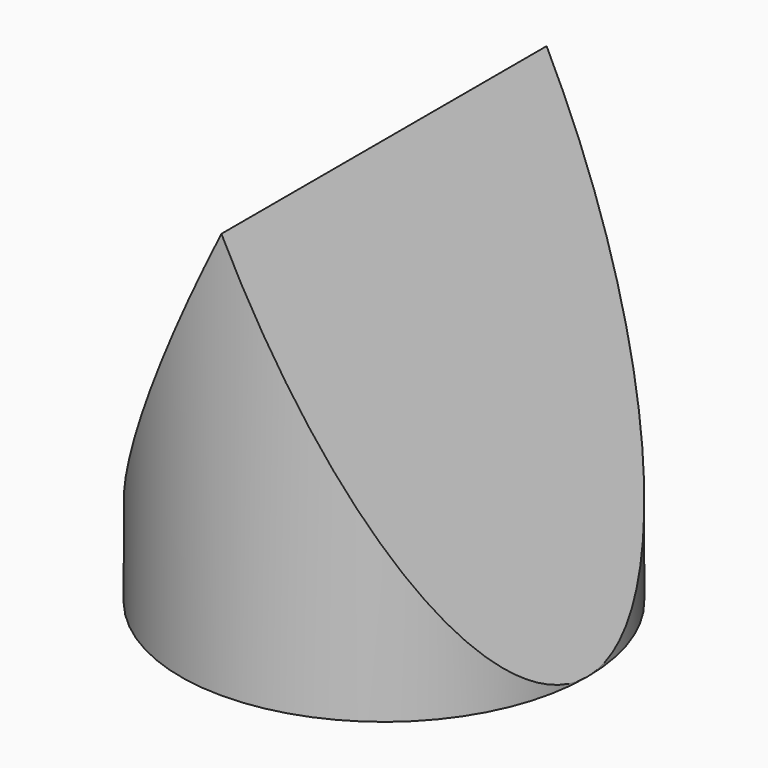
from build123d import *

# Parameters (mm, degrees)
F0_W     = 25.4
F0_H     = 25.4
F1_DEPTH = 12.7
F3_DEPTH = 12.7
F4_R     = 26.692989
F4_R_2   = 12.7
F5_DEPTH = 12.7


with BuildPart() as f1:
    # F0 (on Top) → F1 (new body, symmetric)
    with BuildSketch(Plane.XY):
        Rectangle(F0_W, F0_H)
    extrude(amount=F1_DEPTH, both=True)

    # F2 (on Front) → F3 (cut, symmetric)
    with BuildSketch(Plane.XZ):
        Polygon((-12.7, -12.7), (0, 12.7), (12.7, -12.7), (26.629834, -12.7), (26.629834, 23.978902), (-32.895677, 23.978902), (-32.895677, -12.7), align=None)
    extrude(amount=F3_DEPTH, both=True, mode=Mode.SUBTRACT)

    # F4 (on Top) → F5 (cut, symmetric)
    with BuildSketch(Plane.XY):
        Circle(F4_R)
        Circle(F4_R_2, mode=Mode.SUBTRACT)
    extrude(amount=F5_DEPTH, both=True, mode=Mode.SUBTRACT)


solid = f1.part
